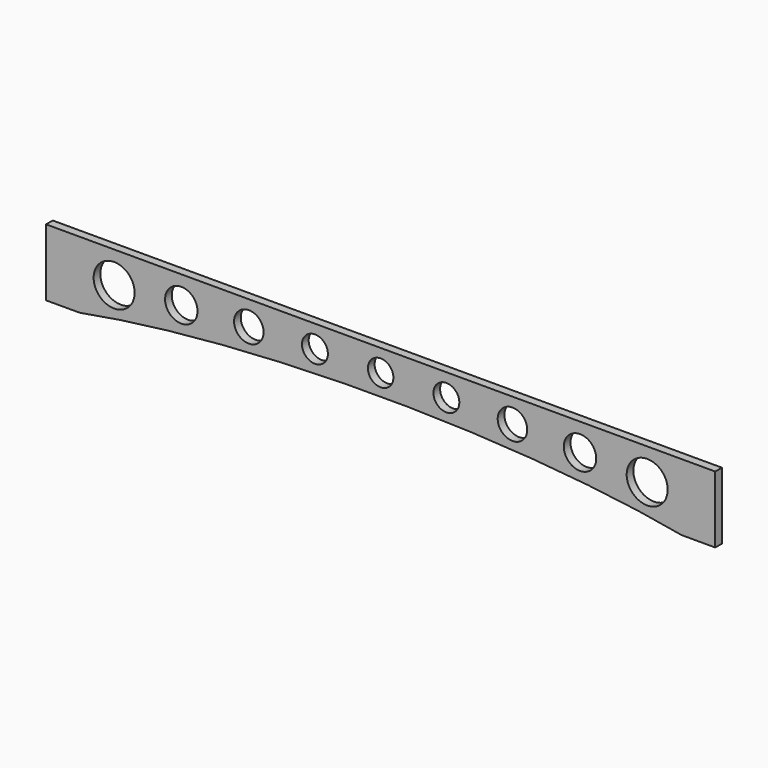
from build123d import *

# Parameters (mm, degrees)
F0_R     = 62.2683969294
F0_R_2   = 49.2526752523
F0_R_3   = 44.8030745343
F0_R_4   = 39.3148255075
F0_R_5   = 38.6955031636
F1_DEPTH = 25.4


with BuildPart() as f1:
    # F0 (on Front) → F1 (new body)
    with BuildSketch(Plane.XZ):
        with BuildLine():
            Line((1907.0610426068, 240.7336371362), (-124.9389573932, 240.7336371362))
            Line((-124.9389573932, 240.7336371362), (-124.9389573932, 37.5336371362))
            Line((-124.9389573932, 37.5336371362), (-23.3389573932, 37.5336371362))
            add(Edge.make_bspline(
                [(1805.4610426068, 37.5336371362), (891.0610426068, 210.5805279062), (-23.3389573932, 37.5336371362)],
                knots=[0.8212687708, 0.8212687708, 0.8212687708, 2.3203238827, 2.3203238827, 2.3203238827], degree=2, weights=[1, 0.7320108234, 1]))
            Line((1805.4610426068, 37.5336371362), (1907.0610426068, 37.5336371362))
            Line((1907.0610426068, 37.5336371362), (1907.0610426068, 240.7336371362))
        make_face()
        with Locations((81.7084610462, 145.1001018286)):
            Circle(F0_R, mode=Mode.SUBTRACT)
        with Locations((285.6478393078, 158.0753624439)):
            Circle(F0_R_2, mode=Mode.SUBTRACT)
        with Locations((490.7727837563, 166.8664216995)):
            Circle(F0_R_3, mode=Mode.SUBTRACT)
        with Locations((691.5022134781, 172.727137804)):
            Circle(F0_R_4, mode=Mode.SUBTRACT)
        with Locations((891.0610426068, 174.12763834)):
            Circle(F0_R_5, mode=Mode.SUBTRACT)
        with Locations((1090.6198717356, 172.727137804)):
            Circle(F0_R_4, mode=Mode.SUBTRACT)
        with Locations((1291.3493014574, 166.8664216995)):
            Circle(F0_R_3, mode=Mode.SUBTRACT)
        with Locations((1496.4742459059, 158.0753624439)):
            Circle(F0_R_2, mode=Mode.SUBTRACT)
        with Locations((1700.4136241674, 145.1001018286)):
            Circle(F0_R, mode=Mode.SUBTRACT)
    extrude(amount=F1_DEPTH)


solid = f1.part
